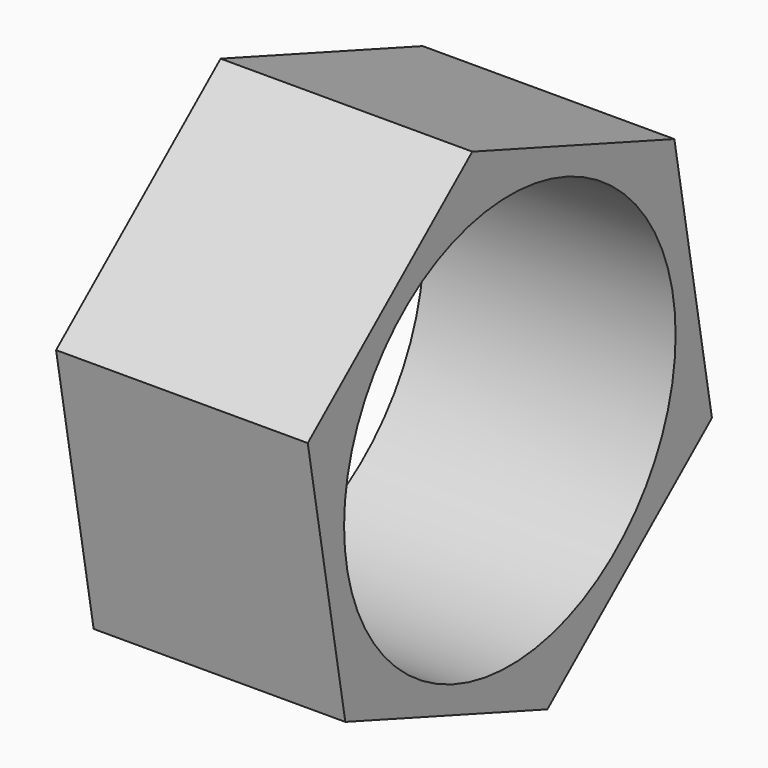
from build123d import *

# Parameters (mm, degrees)
F1_DEPTH = 50
F2_R     = 41.167129
F3_DEPTH = 50.001


with BuildPart() as f1:
    # F0 (on Right) → F1 (new body)
    with BuildSketch(Plane.YZ):
        Polygon((-9.329644, 52.563892), (-50.186488, 18.202237), (-40.856843, -34.361655), (9.329644, -52.563892), (50.186488, -18.202237), (40.856843, 34.361655), align=None)
    extrude(amount=F1_DEPTH)

    # F2 (on Right) → F3 (cut, through all)
    with BuildSketch(Plane.YZ):
        Circle(F2_R)
    extrude(amount=F3_DEPTH, mode=Mode.SUBTRACT)


solid = f1.part
